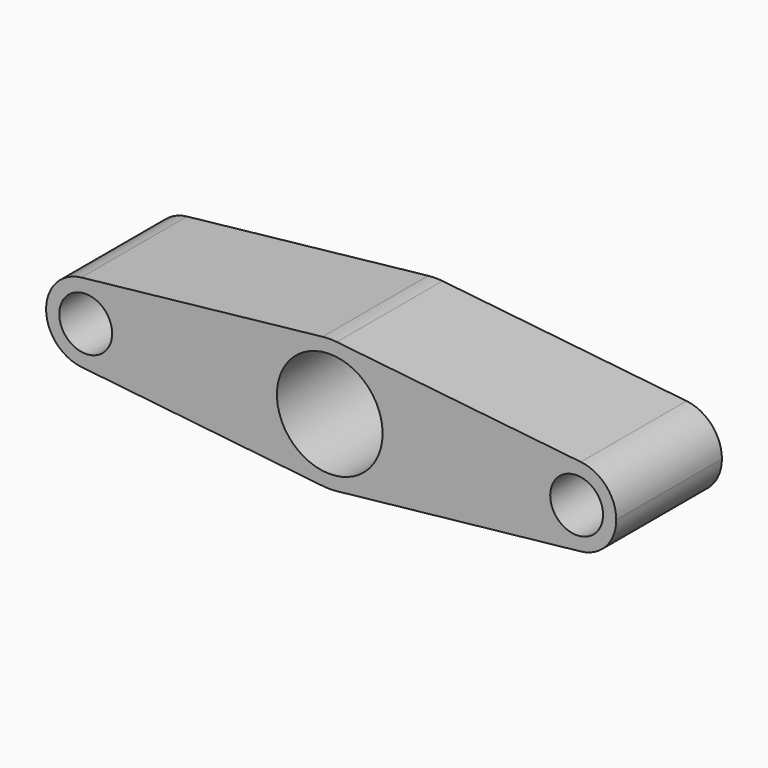
from build123d import *

# Parameters (mm, degrees)
F0_R     = 2.54
F1_DEPTH = 12.7


with BuildPart() as f1:
    # F0 (on Front) → F1 (new body)
    with BuildSketch(Plane.XZ):
        with BuildLine():
            ThreePointArc((-23.876614939, 3.7876112691), (-20.9200976778, 2.836147849), (-19.6541820669, 0))
            Line((-19.6541820669, 0), (-6.35, 0))
            ThreePointArc((-6.35, 0), (-4.7269130816, 4.2401406485), (-0.6873881201, 6.3126854486))
            Line((-0.6873881201, 6.3126854486), (-23.876614939, 3.7876112691))
        make_face()
        with BuildLine():
            Line((-6.35, 0), (-19.6541820669, 0))
            ThreePointArc((-19.6541820669, 0), (-20.9200976778, -2.836147849), (-23.876614939, -3.7876112691))
            Line((-23.876614939, -3.7876112691), (-0.6873881201, -6.3126854486))
            ThreePointArc((-0.6873881201, -6.3126854486), (-4.7269130816, -4.2401406485), (-6.35, 0))
        make_face()
        with BuildLine():
            Line((24.1456229767, 3.7881261824), (0.6794606235, 6.3135436374))
            ThreePointArc((0.6794606235, 6.3135436374), (4.7242499383, 4.2431076489), (6.35, 0))
            Line((6.35, 0), (19.9279466026, 0))
            ThreePointArc((19.9279466026, 0), (21.1920820133, 2.834549963), (24.1456229767, 3.7881261824))
        make_face()
        with BuildLine():
            ThreePointArc((6.35, 0), (4.7242499383, -4.2431076489), (0.6794606235, -6.3135436374))
            Line((0.6794606235, -6.3135436374), (24.1456229767, -3.7881261824))
            ThreePointArc((24.1456229767, -3.7881261824), (21.1920820133, -2.834549963), (19.9279466026, 0))
            Line((19.9279466026, 0), (6.35, 0))
        make_face()
        with BuildLine():
            ThreePointArc((27.5479466026, 0), (26.5724965656, 2.5458645893), (24.1456229767, 3.7881261824))
            ThreePointArc((24.1456229767, 3.7881261824), (21.1920820133, 2.834549963), (19.9279466026, 0))
            ThreePointArc((19.9279466026, 0), (21.1920820133, -2.834549963), (24.1456229767, -3.7881261824))
            ThreePointArc((24.1456229767, -3.7881261824), (26.5724965656, -2.5458645893), (27.5479466026, 0))
        make_face()
        with BuildLine():
            ThreePointArc((26.2779466026, 0), (23.7379466026, -2.54), (21.1979466026, 0))
            ThreePointArc((21.1979466026, 0), (23.7379466026, 2.54), (26.2779466026, 0))
        make_face(mode=Mode.SUBTRACT)
        with BuildLine():
            ThreePointArc((-0.6873881201, 6.3126854486), (-4.7269130816, 4.2401406485), (-6.35, 0))
            Line((-6.35, 0), (-5.08, 0))
            ThreePointArc((-5.08, 0), (0, 5.08), (5.08, 0))
            Line((5.08, 0), (6.35, 0))
            ThreePointArc((6.35, 0), (4.7242499383, 4.2431076489), (0.6794606235, 6.3135436374))
            ThreePointArc((0.6794606235, 6.3135436374), (-0.0039869064, 6.3499987484), (-0.6873881201, 6.3126854486))
        make_face()
        with BuildLine():
            Line((-5.08, 0), (-6.35, 0))
            ThreePointArc((-6.35, 0), (-4.7269130816, -4.2401406485), (-0.6873881201, -6.3126854486))
            ThreePointArc((-0.6873881201, -6.3126854486), (-0.0039869064, -6.3499987484), (0.6794606235, -6.3135436374))
            ThreePointArc((0.6794606235, -6.3135436374), (4.7242499383, -4.2431076489), (6.35, 0))
            Line((6.35, 0), (5.08, 0))
            ThreePointArc((5.08, 0), (0, -5.08), (-5.08, 0))
        make_face()
        with BuildLine():
            ThreePointArc((-23.876614939, -3.7876112691), (-20.9200976778, -2.836147849), (-19.6541820669, 0))
            ThreePointArc((-19.6541820669, 0), (-20.9200976778, 2.836147849), (-23.876614939, 3.7876112691))
            ThreePointArc((-23.876614939, 3.7876112691), (-27.2741820669, 0), (-23.876614939, -3.7876112691))
        make_face()
        with Locations((-23.4641820669, 0)):
            Circle(F0_R, mode=Mode.SUBTRACT)
    extrude(amount=F1_DEPTH)


solid = f1.part
